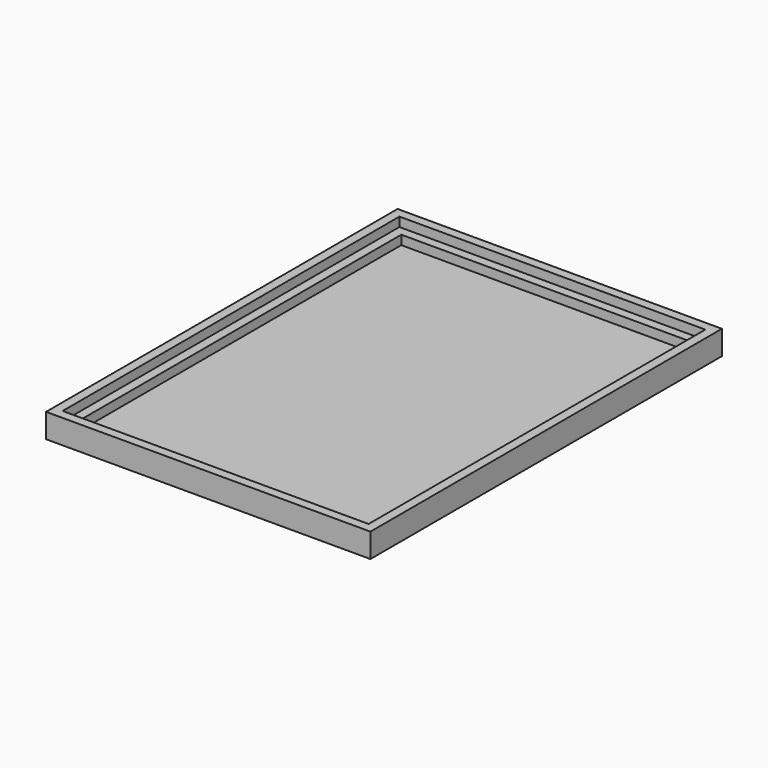
from build123d import *

# Parameters (mm, degrees)
F3_W     = 28.2
F3_H     = 38.2
F4_DEPTH = 0.5


with BuildPart() as f2:
    # F2: sweep along a path in F0
    with BuildLine(Plane.XY) as f2_path:
        Line((-12.5, 17.5), (-12.5, -17.5))
        Line((-12.5, -17.5), (12.5, -17.5))
        Line((12.5, -17.5), (12.5, 17.5))
        Line((12.5, 17.5), (-12.5, 17.5))
    # F1 (on Front) → F2 (sweep)
    with BuildSketch(Plane.XZ):
        Polygon((-14.1, 0), (-12.5, 0), (-12.5, 0.8), (-13.3, 0.8), (-13.3, 1.6), (-14.1, 1.6), align=None)
    sweep(path=f2_path.line, transition=Transition.RIGHT)

    # F3 (on face) → F4 (join)
    with BuildSketch(Plane(origin=(0, 0, 0), x_dir=(1, 0, 0), z_dir=(0, 0, -1))):
        Rectangle(F3_W, F3_H)
    extrude(amount=F4_DEPTH)


solid = f2.part
